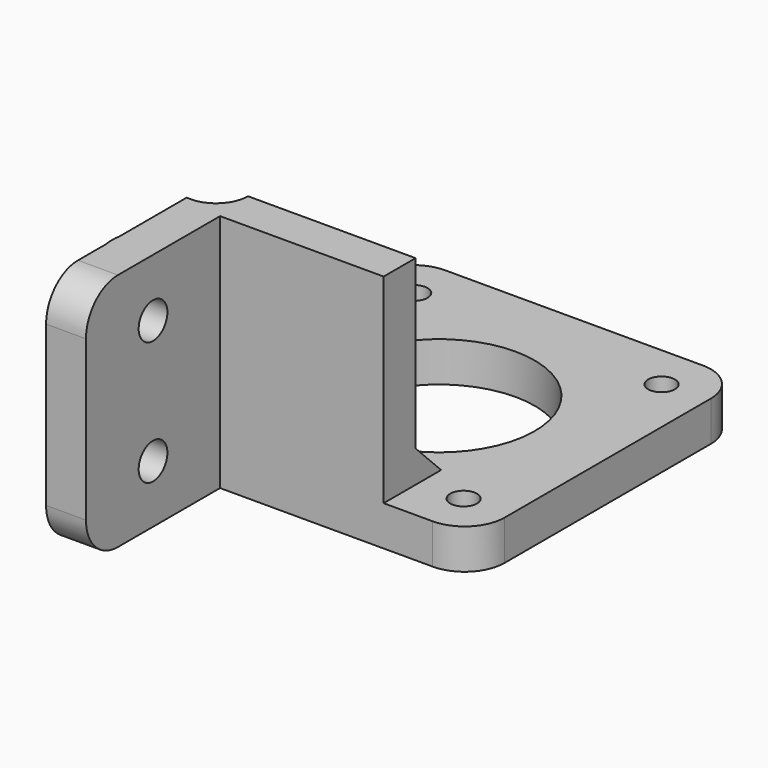
from build123d import *

# Parameters (mm, degrees)
CUBE003_W                     = 500
CUBE003_H                     = 500
CUBE003_DEPTH                 = 500
CYLINDER006_R                 = 2.25
CYLINDER006_DEPTH             = 1000
CYLINDER005_R                 = 2.25
CYLINDER005_DEPTH             = 1000
CYLINDER004_R                 = 7.25
CYLINDER004_DEPTH             = 6.5
CYLINDER003_R                 = 7.25
CYLINDER003_DEPTH             = 6.5
GROUP003_PLACEMENT_ANGLE      = 180
CYLINDER002_R                 = 7.25
CYLINDER002_DEPTH             = 6.5
CYLINDER001_R                 = 7.25
CYLINDER001_DEPTH             = 6.5
CYLINDER_R                    = 4
CYLINDER_DEPTH                = 200
CUBE002_W                     = 60
CUBE002_H                     = 21
CUBE002_DEPTH                 = 21
CUBE001_W                     = 30
CUBE001_H                     = 31
CUBE001_DEPTH                 = 26
DIFFERENCE002_PITCH_ANGLE     = 90
DIFFERENCE002_PLACEMENT_ANGLE = 90
REFINELINEAREXTRUDE_R         = 12
REFINELINEAREXTRUDE_R_2       = 1.675
LINEAREXTRUDE_DEPTH           = 20
CUBE_W                        = 42.3
CUBE_H                        = 42.3
CUBE_DEPTH                    = 5
CHAMFER_SIZE                  = 4
CHAMFER001_SIZE               = 1.4
CHAMFER002_SIZE               = 1.4
FILLET_R                      = 5
FILLET001_R                   = 5
FILLET002_R                   = 5
FILLET003_R                   = 5
FILLET004_R                   = 5
FILLET005_R                   = 5


with BuildPart() as cube003:
    # cube003 → cube003 (new body)
    with BuildSketch(Plane(origin=(-250, -510, -250), x_dir=(1, 0, 0), z_dir=(0, 0, 1))):
        with Locations((250, 250)):
            Rectangle(CUBE003_W, CUBE003_H)
    extrude(amount=CUBE003_DEPTH)


with BuildPart() as cylinder006:
    # cylinder006 → cylinder006 (new body)
    with BuildSketch(Plane(origin=(15.5, 500, 0), x_dir=(1, 0, 0), z_dir=(0, -1, 0))):
        Circle(CYLINDER006_R)
    extrude(amount=CYLINDER006_DEPTH)


with BuildPart() as union002:
    # cylinder005 → cylinder005 (new body)
    with BuildSketch(Plane.XZ.offset(-500)):
        Circle(CYLINDER005_R)
    extrude(amount=CYLINDER005_DEPTH)

    # Group005: union cylinder006
    add(cylinder006.part)


with BuildPart() as union002_1:
    # Group005 placement: moved
    add(union002.part.moved(Location((2.25, 0, -15.5))))

    # union002: union cube003
    add(cube003.part)


with BuildPart() as cylinder004:
    # cylinder004 → cylinder004 (new body)
    with BuildSketch(Plane(origin=(15.5, 0, 0), x_dir=(1, 0, 0), z_dir=(0, -1, 0))):
        Circle(CYLINDER004_R)
    extrude(amount=CYLINDER004_DEPTH)


with BuildPart() as group003:
    # cylinder003 → cylinder003 (new body)
    with BuildSketch(Plane.XZ):
        Circle(CYLINDER003_R)
    extrude(amount=CYLINDER003_DEPTH)

    # Group003: union cylinder004
    add(cylinder004.part)


with BuildPart() as group003_1:
    # Group003 placement: moved
    add(group003.part.moved(Location((2.25, 10.5, -15.5))).rotate(Axis((2.25, 10.5, -15.5), (1, 0, 0)), GROUP003_PLACEMENT_ANGLE))


with BuildPart() as cylinder002:
    # cylinder002 → cylinder002 (new body)
    with BuildSketch(Plane(origin=(15.5, 0, 0), x_dir=(1, 0, 0), z_dir=(0, -1, 0))):
        Circle(CYLINDER002_R)
    extrude(amount=CYLINDER002_DEPTH)


with BuildPart() as group004:
    # cylinder001 → cylinder001 (new body)
    with BuildSketch(Plane.XZ):
        Circle(CYLINDER001_R)
    extrude(amount=CYLINDER001_DEPTH)

    # Group002: union cylinder002
    add(cylinder002.part)


with BuildPart() as group004_1:
    # Group002 placement: moved
    add(group004.part.moved(Location((2.25, -10.5, -15.5))))

    # Group004: union Group003
    add(group003_1.part)


with BuildPart() as cylinder:
    # cylinder → cylinder (new body)
    with BuildSketch(Plane(origin=(-100, 15, 13), x_dir=(0, 1, 0), z_dir=(1, 0, 0))):
        Circle(CYLINDER_R)
    extrude(amount=CYLINDER_DEPTH)


with BuildPart() as union:
    # cube002 → cube002 (new body)
    with BuildSketch(Plane(origin=(-30, -10.5, -13), x_dir=(1, 0, 0), z_dir=(0, 0, 1))):
        with Locations((30, 10.5)):
            Rectangle(CUBE002_W, CUBE002_H)
    extrude(amount=CUBE002_DEPTH)

    # union: union cylinder
    add(cylinder.part)


with BuildPart() as difference002:
    # cube001 → cube001 (new body)
    with BuildSketch(Plane(origin=(-15, -15.5, -13), x_dir=(1, 0, 0), z_dir=(0, 0, 1))):
        with Locations((15, 15.5)):
            Rectangle(CUBE001_W, CUBE001_H)
    extrude(amount=CUBE001_DEPTH)

    # difference001: cut union
    add(union.part, mode=Mode.SUBTRACT)


with BuildPart() as difference002_1:
    # difference001 placement: moved
    add(difference002.part.moved(Location((10, 0, -13))))

    # union001: union Group004
    add(group004_1.part)

    # difference002: cut union002
    add(union002_1.part, mode=Mode.SUBTRACT)


with BuildPart() as difference002_2:
    # difference002 pitch: moved
    add(difference002_1.part.rotate(Axis((0, 0, 0), (0, 1, 0)), DIFFERENCE002_PITCH_ANGLE))


with BuildPart() as difference002_3:
    # difference002 placement: moved
    add(difference002_2.part.moved(Location((21.15, 5, 25))).rotate(Axis((21.15, 5, 25), (0, 0, 1)), DIFFERENCE002_PLACEMENT_ANGLE))


with BuildPart() as linearextrude:
    # RefineLinearExtrude → LinearExtrude (new body)
    with BuildSketch(Plane(origin=(0, 0, 0), x_dir=(0, 1, 0), z_dir=(0, 0, 1))):
        Circle(REFINELINEAREXTRUDE_R)
        with Locations((15.5, -15.5)):
            Circle(REFINELINEAREXTRUDE_R_2)
        with Locations((15.5, 15.5)):
            Circle(REFINELINEAREXTRUDE_R_2)
        with Locations((-15.5, 15.5)):
            Circle(REFINELINEAREXTRUDE_R_2)
        with Locations((-15.5, -15.5)):
            Circle(REFINELINEAREXTRUDE_R_2)
    extrude(amount=LINEAREXTRUDE_DEPTH)


with BuildPart() as linearextrude_1:
    # LinearExtrude placement: moved
    add(linearextrude.part.moved(Location((21.15, 21.15, -10))))


with BuildPart() as fillet005:
    # cube → cube (new body)
    with BuildSketch(Plane.XY):
        with Locations((21.15, 21.15)):
            Rectangle(CUBE_W, CUBE_H)
    extrude(amount=CUBE_DEPTH)

    # difference: cut LinearExtrude
    add(linearextrude_1.part, mode=Mode.SUBTRACT)

    # Fusion: union difference002
    add(difference002_3.part)

    # Chamfer
    chamfer_edges = [fillet005.edges().sort_by_distance(p)[0] for p in [
        (20.65, 5, 5),
    ]]
    chamfer(chamfer_edges, length=CHAMFER_SIZE)

    # Chamfer001
    chamfer001_edges = [fillet005.edges().sort_by_distance(p)[0] for p in [
        (4.15, -10.5, 30),
    ]]
    chamfer(chamfer001_edges, length=CHAMFER001_SIZE)

    # Chamfer002
    chamfer002_edges = [fillet005.edges().sort_by_distance(p)[0] for p in [
        (4.15, -10.5, 14.5),
    ]]
    chamfer(chamfer002_edges, length=CHAMFER002_SIZE)

    # Fillet
    fillet_edges = [fillet005.edges().sort_by_distance(p)[0] for p in [
        (8.15, -21, 30),
    ]]
    fillet(fillet_edges, radius=FILLET_R)

    # Fillet001
    fillet001_edges = [fillet005.edges().sort_by_distance(p)[0] for p in [
        (8.15, -21, 0),
    ]]
    fillet(fillet001_edges, radius=FILLET001_R)

    # Fillet002
    fillet002_edges = [fillet005.edges().sort_by_distance(p)[0] for p in [
        (0, 0, 2.5),
    ]]
    fillet(fillet002_edges, radius=FILLET002_R)

    # Fillet003
    fillet003_edges = [fillet005.edges().sort_by_distance(p)[0] for p in [
        (42.3, 0, 2.5),
    ]]
    fillet(fillet003_edges, radius=FILLET003_R)

    # Fillet004
    fillet004_edges = [fillet005.edges().sort_by_distance(p)[0] for p in [
        (42.3, 42.3, 2.5),
    ]]
    fillet(fillet004_edges, radius=FILLET004_R)

    # Fillet005
    fillet005_edges = [fillet005.edges().sort_by_distance(p)[0] for p in [
        (0, 42.3, 2.5),
    ]]
    fillet(fillet005_edges, radius=FILLET005_R)


solid = fillet005.part
